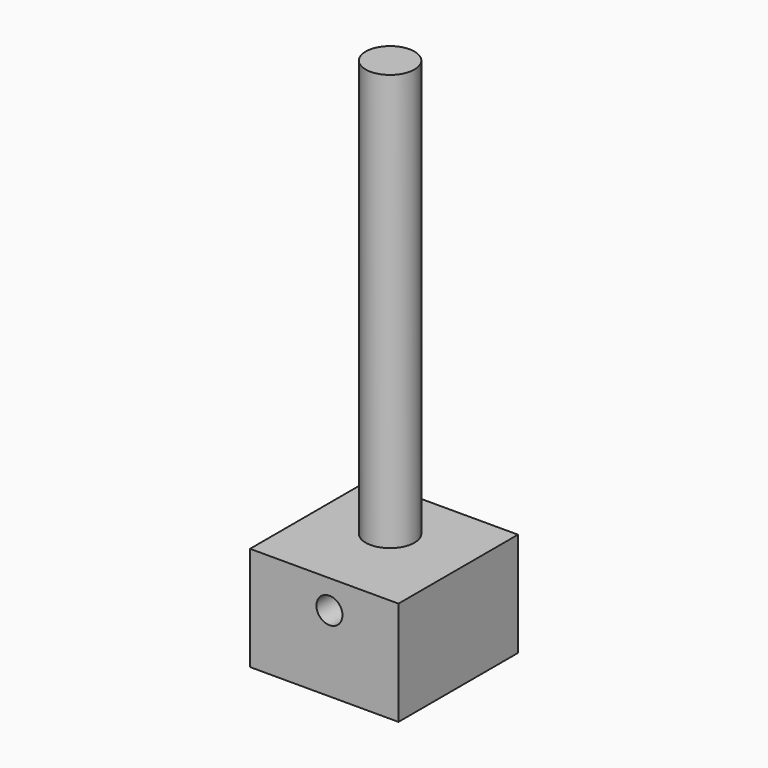
from build123d import *

# Parameters (mm, degrees)
F0_W     = 36.2055785954
F0_H     = 36.4281870425
F1_DEPTH = 25.4
F2_R     = 5.9545672291
F3_DEPTH = 101.6
F4_R     = 3.175
F5_DEPTH = 36.4291870425


with BuildPart() as f1:
    # F0 (on Top) → F1 (new body)
    with BuildSketch(Plane.XY):
        with Locations((18.1027892977, 19.5768494159)):
            Rectangle(F0_W, F0_H)
    extrude(amount=F1_DEPTH)

    # F2 (on face) → F3 (join)
    with BuildSketch(Plane.XY.offset(25.4)):
        with Locations((16.946144402, 22.8772908449)):
            Circle(F2_R)
    extrude(amount=F3_DEPTH)

    # F4 (on face) → F5 (cut, through all)
    with BuildSketch(Plane.XZ.offset(-1.3627558947)):
        with Locations((19.3670187145, 18.4601526707)):
            Circle(F4_R)
    extrude(amount=-F5_DEPTH, mode=Mode.SUBTRACT)


solid = f1.part
